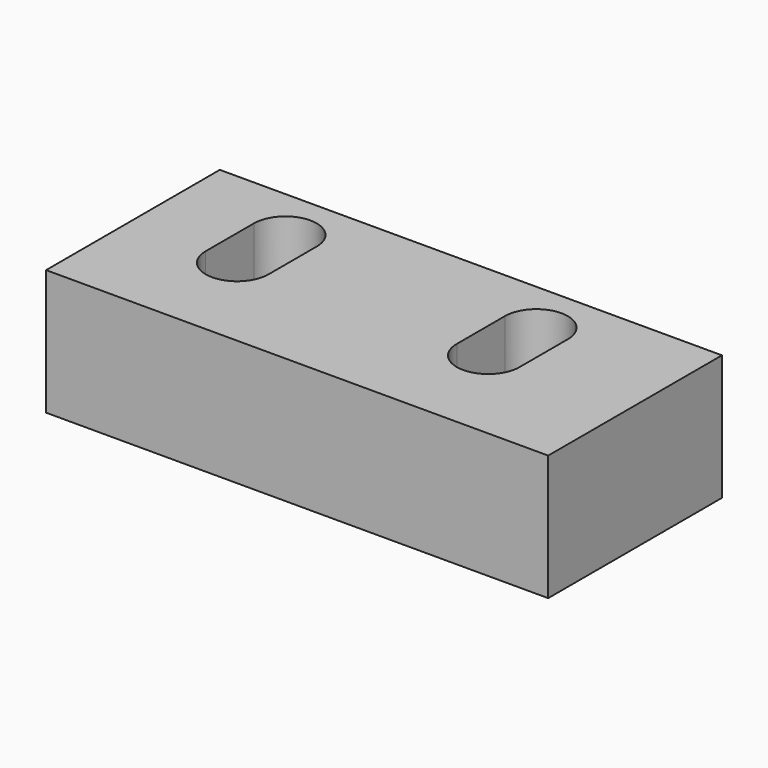
from build123d import *

# Parameters (mm, degrees)
F0_W     = 25.4
F0_H     = 10.9855
F1_DEPTH = 6.35


with BuildPart() as f1:
    # F0 (on Top) → F1 (new body)
    with BuildSketch(Plane.XY):
        with Locations((0.85008, -1.236201)):
            Rectangle(F0_W, F0_H)
        with BuildLine():
            Line((-4.7625, 1.524), (-4.7625, 0))
            Line((-4.7625, 0), (-4.7625, -1.524))
            ThreePointArc((-4.7625, -1.524), (-6.35, -3.1115), (-7.9375, -1.524))
            Line((-7.9375, -1.524), (-7.9375, 0))
            Line((-7.9375, 0), (-7.9375, 1.524))
            ThreePointArc((-7.9375, 1.524), (-6.35, 3.1115), (-4.7625, 1.524))
        make_face(mode=Mode.SUBTRACT)
        with BuildLine():
            Line((7.9375, 1.524), (7.9375, 0))
            Line((7.9375, 0), (7.9375, -1.524))
            ThreePointArc((7.9375, -1.524), (6.35, -3.1115), (4.7625, -1.524))
            Line((4.7625, -1.524), (4.7625, 0))
            Line((4.7625, 0), (4.7625, 1.524))
            ThreePointArc((4.7625, 1.524), (6.35, 3.1115), (7.9375, 1.524))
        make_face(mode=Mode.SUBTRACT)
    extrude(amount=F1_DEPTH)


solid = f1.part
